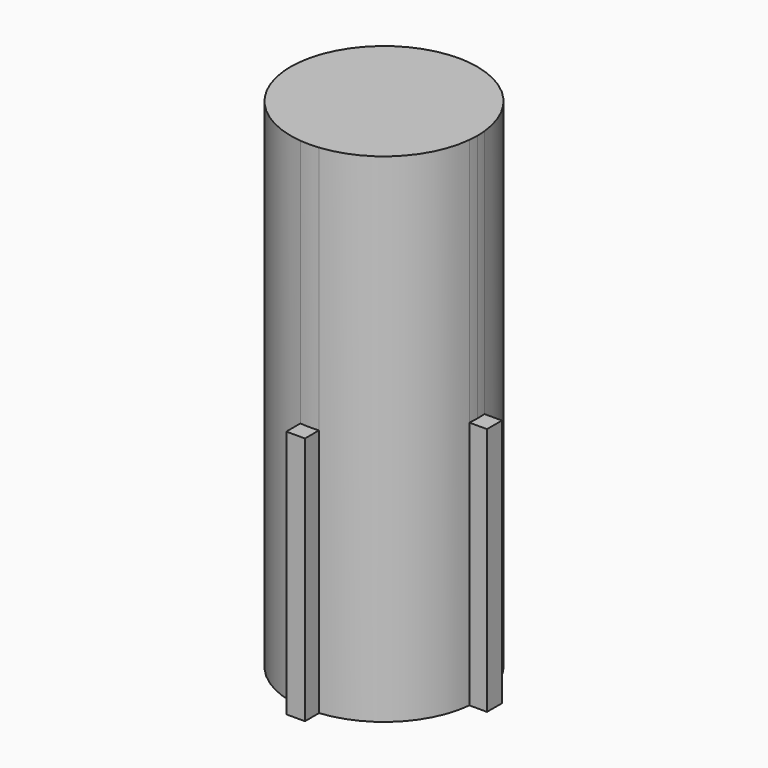
from build123d import *

# Parameters (mm, degrees)
F1_DEPTH = 203.2
F2_DEPTH = 101.6


with BuildPart() as f1:
    # F0 (on Top) → F1 (new body)
    with BuildSketch(Plane.XY):
        with BuildLine():
            ThreePointArc((37.909021, -3.81), (38.052225, -1.907392), (38.1, 0))
            ThreePointArc((38.1, 0), (38.052225, 1.907392), (37.909021, 3.81))
            Line((37.909021, 3.81), (31.115, 3.81))
            Line((31.115, 3.81), (31.115, -3.81))
            Line((31.115, -3.81), (37.909021, -3.81))
        make_face()
        with BuildLine():
            Line((-31.115, 3.81), (-37.909021, 3.81))
            ThreePointArc((-37.909021, 3.81), (-38.1, 0), (-37.909021, -3.81))
            Line((-37.909021, -3.81), (-31.115, -3.81))
            Line((-31.115, -3.81), (-31.115, 3.81))
        make_face()
        with BuildLine():
            Line((3.81, 31.115), (3.81, 37.909021))
            ThreePointArc((3.81, 37.909021), (0, 38.1), (-3.81, 37.909021))
            Line((-3.81, 37.909021), (-3.81, 31.115))
            Line((-3.81, 31.115), (3.81, 31.115))
        make_face()
        with BuildLine():
            ThreePointArc((-3.81, -37.909021), (0, -38.1), (3.81, -37.909021))
            Line((3.81, -37.909021), (3.81, -31.115))
            Line((3.81, -31.115), (-3.81, -31.115))
            Line((-3.81, -31.115), (-3.81, -37.909021))
        make_face()
        with BuildLine():
            Line((31.115, 3.81), (37.909021, 3.81))
            ThreePointArc((37.909021, 3.81), (26.940768, 26.940768), (3.81, 37.909021))
            Line((3.81, 37.909021), (3.81, 31.115))
            Line((3.81, 31.115), (-3.81, 31.115))
            Line((-3.81, 31.115), (-3.81, 37.909021))
            ThreePointArc((-3.81, 37.909021), (-26.940768, 26.940768), (-37.909021, 3.81))
            Line((-37.909021, 3.81), (-31.115, 3.81))
            Line((-31.115, 3.81), (-31.115, -3.81))
            Line((-31.115, -3.81), (-37.909021, -3.81))
            ThreePointArc((-37.909021, -3.81), (-26.940768, -26.940768), (-3.81, -37.909021))
            Line((-3.81, -37.909021), (-3.81, -31.115))
            Line((-3.81, -31.115), (3.81, -31.115))
            Line((3.81, -31.115), (3.81, -37.909021))
            ThreePointArc((3.81, -37.909021), (26.940768, -26.940768), (37.909021, -3.81))
            Line((37.909021, -3.81), (31.115, -3.81))
            Line((31.115, -3.81), (31.115, 3.81))
        make_face()
    extrude(amount=F1_DEPTH)

    # F0 (on Top) → F2 (join)
    with BuildSketch(Plane.XY):
        with BuildLine():
            ThreePointArc((-37.909021, -3.81), (-38.1, 0), (-37.909021, 3.81))
            Line((-37.909021, 3.81), (-45.085, 3.81))
            Line((-45.085, 3.81), (-45.085, -3.81))
            Line((-45.085, -3.81), (-37.909021, -3.81))
        make_face()
        with BuildLine():
            Line((3.81, -45.085), (3.81, -37.909021))
            ThreePointArc((3.81, -37.909021), (0, -38.1), (-3.81, -37.909021))
            Line((-3.81, -37.909021), (-3.81, -45.085))
            Line((-3.81, -45.085), (3.81, -45.085))
        make_face()
        with BuildLine():
            ThreePointArc((37.909021, 3.81), (38.052225, 1.907392), (38.1, 0))
            ThreePointArc((38.1, 0), (38.052225, -1.907392), (37.909021, -3.81))
            Line((37.909021, -3.81), (45.085, -3.81))
            Line((45.085, -3.81), (45.085, 3.81))
            Line((45.085, 3.81), (37.909021, 3.81))
        make_face()
        with BuildLine():
            ThreePointArc((-3.81, 37.909021), (0, 38.1), (3.81, 37.909021))
            Line((3.81, 37.909021), (3.81, 45.085))
            Line((3.81, 45.085), (-3.81, 45.085))
            Line((-3.81, 45.085), (-3.81, 37.909021))
        make_face()
    extrude(amount=F2_DEPTH)


solid = f1.part
